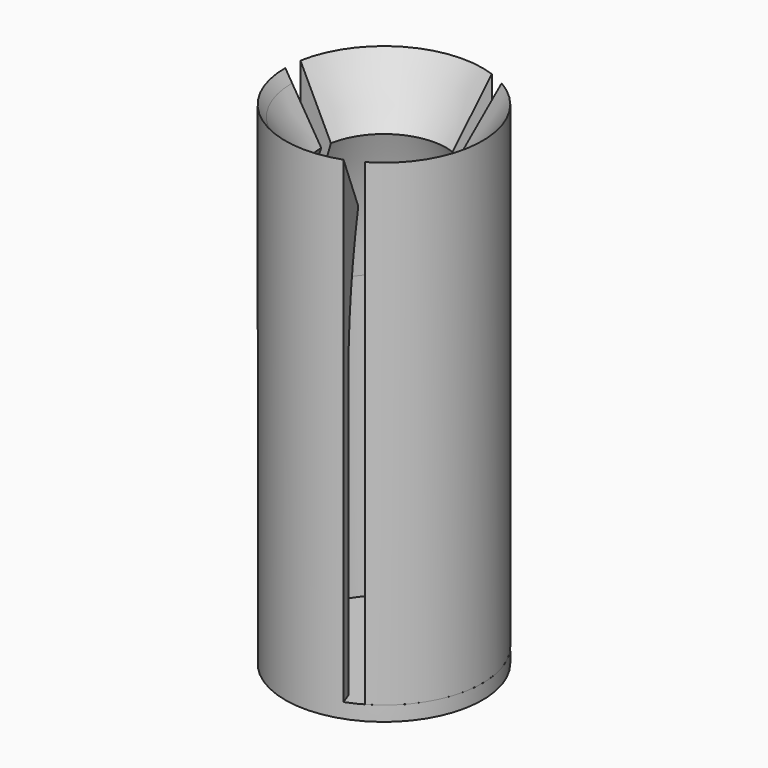
from build123d import *

# Parameters (mm, degrees)
F1_ANGLE = 10
F2_ANGLE = 110
F3_ANGLE = 10
F4_ANGLE = 120
F5_ANGLE = 10
F6_ANGLE = 10
F8_ANGLE = 110


with BuildPart() as f1:
    # F0 (on Front) → F1 (revolve)
    with BuildSketch(Plane.XZ):
        with BuildLine():
            Line((-3.5287903258, 17.0769609176), (-3.5287903258, 0))
            Line((-3.5287903258, 0), (-3.0986794736, 0))
            Line((-3.0986794736, 0), (-3.0986794736, 10.1178176701))
            ThreePointArc((-3.0986794736, 10.1178176701), (-2.8830391202, 12.5854312412), (-2.2426552605, 14.9782383814))
            Line((-2.2426552605, 14.9782383814), (-3.2845714595, 16.6784431785))
            Line((-3.2845714595, 16.6784431785), (-3.5287903258, 17.0769609176))
        make_face()
    revolve(axis=Axis((0, 0, -0.2650460228), (0, 0, -1)), revolution_arc=F1_ANGLE)

    # F2_face1 (on face) → F5 (revolve, cut)
    with BuildSketch(Plane(origin=(-3.1631235967, 0.5577440334, 9.6345378816), x_dir=(0.984807753, -0.1736481777, 0), z_dir=(-0.1736481777, -0.984807753, 0))):
        with BuildLine():
            Line((0.9692646163, 5.3437004999), (-0.316870449, 7.442423036))
            Line((-0.316870449, 7.442423036), (-0.316870449, -9.6345378816))
            Line((-0.316870449, -9.6345378816), (0.1132404032, -9.6345378816))
            Line((0.1132404032, -9.6345378816), (0.1132404032, 0.4832797885))
            ThreePointArc((0.1132404032, 0.4832797885), (0.3288807566, 2.9508933596), (0.9692646163, 5.3437004999))
        make_face()
    revolve(axis=Axis((0, 0, -0.2650460228), (0, 0, 1)), revolution_arc=F5_ANGLE, mode=Mode.SUBTRACT)


with BuildPart() as f2:
    # F1_face (on face) → F2 (revolve)
    with BuildSketch(Plane(origin=(-3.1631235967, 0.5577440334, 9.6345378816), x_dir=(-0.984807753, 0.1736481777, 0), z_dir=(0.1736481777, 0.984807753, 0))):
        with BuildLine():
            Line((0.316870449, 7.442423036), (-0.9692646163, 5.3437004999))
            ThreePointArc((-0.9692646163, 5.3437004999), (-0.3288807566, 2.9508933596), (-0.1132404032, 0.4832797885))
            Line((-0.1132404032, 0.4832797885), (-0.1132404032, -9.6345378816))
            Line((-0.1132404032, -9.6345378816), (0.316870449, -9.6345378816))
            Line((0.316870449, -9.6345378816), (0.316870449, 7.442423036))
        make_face()
    revolve(axis=Axis((0, 0, -0.2650460228), (0, 0, -1)), revolution_arc=F2_ANGLE)


with BuildPart() as f3:
    # F2_face (on face) → F3 (revolve)
    with BuildSketch(Plane(origin=(1.6059599384, 2.7816042082, 9.6345378816), x_dir=(0.5, 0.8660254038, 0), z_dir=(0.8660254038, -0.5, 0))):
        with BuildLine():
            Line((0.316870449, 7.442423036), (-0.9692646163, 5.3437004999))
            ThreePointArc((-0.9692646163, 5.3437004999), (-0.3288807566, 2.9508933596), (-0.1132404032, 0.4832797885))
            Line((-0.1132404032, 0.4832797885), (-0.1132404032, -9.6345378816))
            Line((-0.1132404032, -9.6345378816), (0.316870449, -9.6345378816))
            Line((0.316870449, -9.6345378816), (0.316870449, 7.442423036))
        make_face()
    revolve(axis=Axis((0, 0, -0.2650460228), (0, 0, 1)), revolution_arc=F3_ANGLE)


with BuildPart() as f4:
    # F2_face (on face) → F4 (revolve)
    with BuildSketch(Plane(origin=(1.6059599384, 2.7816042082, 9.6345378816), x_dir=(0.5, 0.8660254038, 0), z_dir=(0.8660254038, -0.5, 0))):
        with BuildLine():
            Line((0.316870449, 7.442423036), (-0.9692646163, 5.3437004999))
            ThreePointArc((-0.9692646163, 5.3437004999), (-0.3288807566, 2.9508933596), (-0.1132404032, 0.4832797885))
            Line((-0.1132404032, 0.4832797885), (-0.1132404032, -9.6345378816))
            Line((-0.1132404032, -9.6345378816), (0.316870449, -9.6345378816))
            Line((0.316870449, -9.6345378816), (0.316870449, 7.442423036))
        make_face()
    revolve(axis=Axis((0, 0, -0.2650460228), (0, 0, -1)), revolution_arc=F4_ANGLE)


with BuildPart() as f6_tool:
    # F4_face (on face) → F6 (revolve)
    with BuildSketch(Plane(origin=(1.6059599384, 2.7816042082, 9.6345378816), x_dir=(-0.5, -0.8660254038, 0), z_dir=(-0.8660254038, 0.5, 0))):
        with BuildLine():
            Line((0.9692646163, 5.3437004999), (-0.316870449, 7.442423036))
            Line((-0.316870449, 7.442423036), (-0.316870449, -9.6345378816))
            Line((-0.316870449, -9.6345378816), (0.1132404032, -9.6345378816))
            Line((0.1132404032, -9.6345378816), (0.1132404032, 0.4832797885))
            ThreePointArc((0.1132404032, 0.4832797885), (0.3288807566, 2.9508933596), (0.9692646163, 5.3437004999))
        make_face()
    revolve(axis=Axis((0, 0, -0.2650460228), (0, 0, 1)), revolution_arc=F6_ANGLE)


with BuildPart() as f2_1:
    add(f2.part)

    # F6: cut by f6_tool
    add(f6_tool.part, mode=Mode.SUBTRACT)


with BuildPart() as f3_1:
    add(f3.part)

    # F6: cut by f6_tool
    add(f6_tool.part, mode=Mode.SUBTRACT)


with BuildPart() as f7:
    # F0 (on Front) → F7 (revolve)
    with BuildSketch(Plane.XZ):
        Polygon((-3.5287903258, -0.5300920457), (-3.2845714595, -0.5300920457), (0, -0.5300920457), (0, 0), (-3.0986794736, 0), (-3.5287903258, 0), align=None)
        Polygon((-3.5287903258, -0.5300920457), (-3.2845714595, -0.5300920457), (0, -0.5300920457), (0, 0), (-3.0986794736, 0), (-3.5287903258, 0), align=None)
    revolve(axis=Axis((0, 0, -0.2650460228), (0, 0, 1)))

    # F0 (on Front) → F8 (revolve)
    with BuildSketch(Plane.XZ):
        with BuildLine():
            Line((-3.5287903258, 17.0769609176), (-3.5287903258, 0))
            Line((-3.5287903258, 0), (-3.0986794736, 0))
            Line((-3.0986794736, 0), (-3.0986794736, 10.1178176701))
            ThreePointArc((-3.0986794736, 10.1178176701), (-2.8830391202, 12.5854312412), (-2.2426552605, 14.9782383814))
            Line((-2.2426552605, 14.9782383814), (-3.2845714595, 16.6784431785))
            Line((-3.2845714595, 16.6784431785), (-3.5287903258, 17.0769609176))
        make_face()
    revolve(axis=Axis((0, 0, -0.2650460228), (0, 0, 1)), revolution_arc=F8_ANGLE)


solid = Compound([f4.part, f2_1.part, f7.part])
